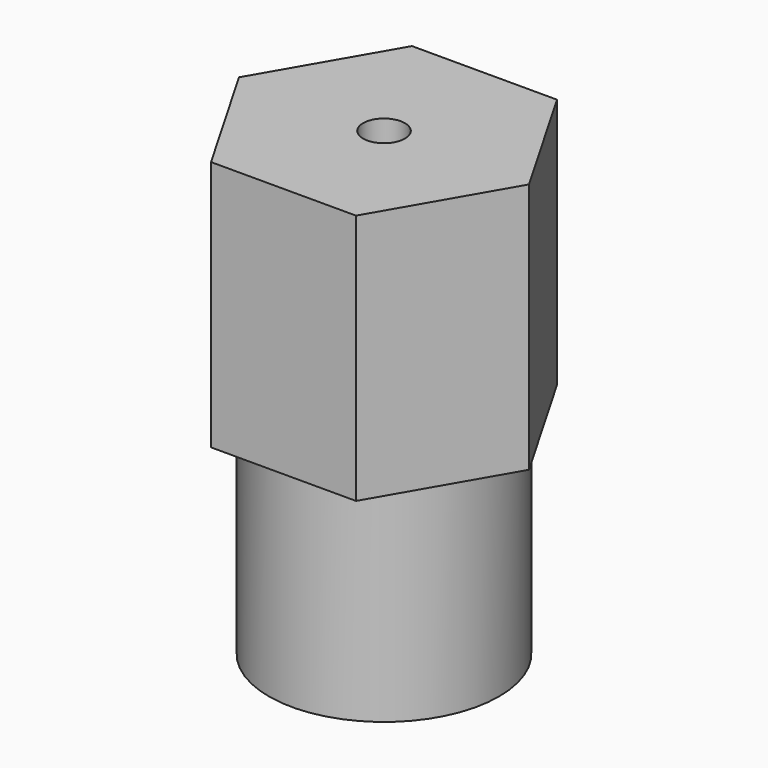
from build123d import *

# Parameters (mm, degrees)
F0_R     = 2.75
F1_DEPTH = 5
F3_DEPTH = 6
F4_R     = 0.5
F5_DEPTH = 11.001


with BuildPart() as f1:
    # F0 (on Top) → F1 (new body)
    with BuildSketch(Plane.XY):
        Circle(F0_R)
    extrude(amount=-F1_DEPTH)

    # F2 (on Top) → F3 (join)
    with BuildSketch(Plane.XY):
        Polygon((1.732051, -3), (3.464102, 0), (1.732051, 3), (-1.732051, 3), (-3.464102, 0), (-1.732051, -3), align=None)
    extrude(amount=F3_DEPTH)

    # F4 (on face) → F5 (cut, through all)
    with BuildSketch(Plane.XY.offset(6)):
        Circle(F4_R)
    extrude(amount=-F5_DEPTH, mode=Mode.SUBTRACT)


solid = f1.part
